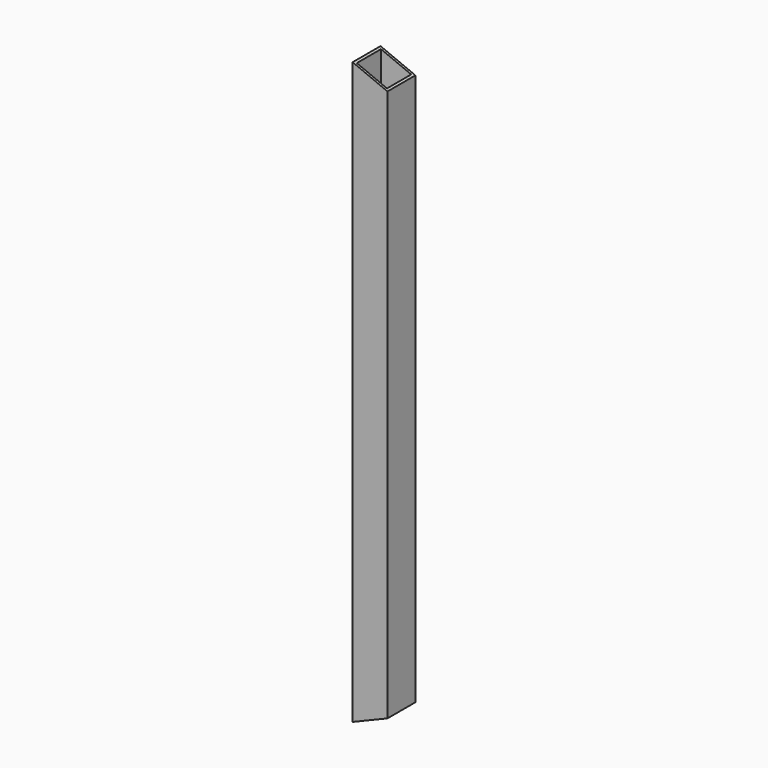
from build123d import *

# Parameters (mm, degrees)
F1_W     = 15
F1_H     = 15
F1_W_2   = 13
F1_H_2   = 13
F2_DEPTH = 250
F4_DEPTH = 25


with BuildPart() as f2:
    # F1 (on Top) → F2 (new body)
    with BuildSketch(Plane.XY):
        Rectangle(F1_W, F1_H)
        Rectangle(F1_W_2, F1_H_2, mode=Mode.SUBTRACT)
    extrude(amount=F2_DEPTH)

    # F3 (on face) → F4 (cut)
    with BuildSketch(Plane.XZ.offset(7.5)):
        Polygon((7.5, 6.2132034356), (-7.5, 0), (7.5, 0), align=None)
        Polygon((7.5, 250), (-7.5, 250), (7.5, 243.7867965644), align=None)
    extrude(amount=-F4_DEPTH, mode=Mode.SUBTRACT)


solid = f2.part
